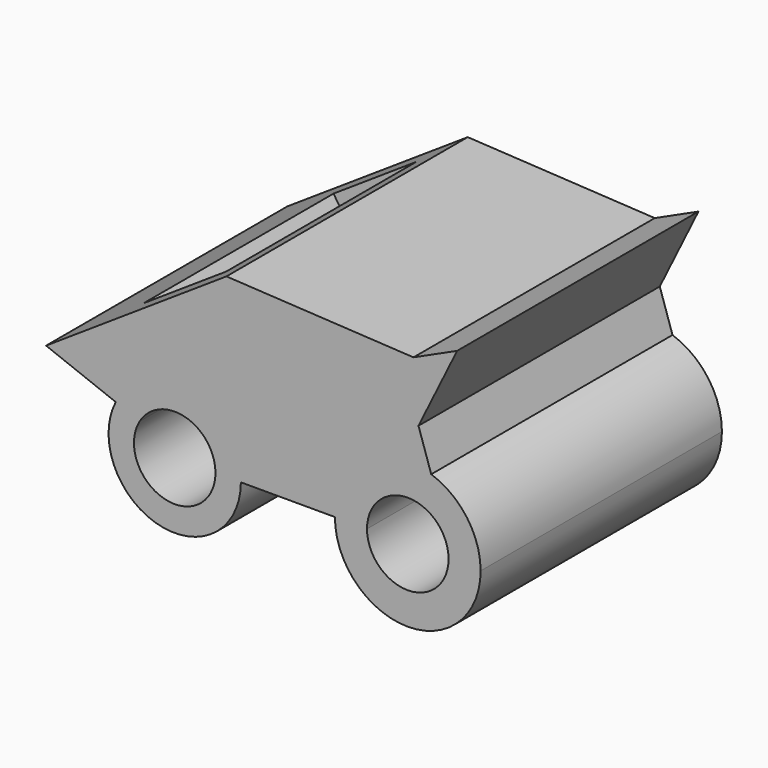
from build123d import *

# Parameters (mm, degrees)
F1_DEPTH = 90
F2_W     = 29.6450741589
F2_H     = 70.9077940881
F3_DEPTH = 25


with BuildPart() as f1:
    # F0 (on Front) → F1 (new body)
    with BuildSketch(Plane.XZ):
        with BuildLine():
            Line((19.7393086681, -2.1245502867), (12.1618005228, -2.1245502867))
            ThreePointArc((12.1618005228, -2.1245502867), (-3.2044417421, -13.8565980652), (-10.4731612691, 4.0578671196))
            Line((-10.4731612691, 4.0578671196), (-17.5973851442, 6.8181754041))
            ThreePointArc((-17.5973851442, 6.8181754041), (-4.5978304439, -21.3209109289), (19.7393086681, -2.1245502867))
        make_face()
        with BuildLine():
            ThreePointArc((-17.5973851442, 6.8181754041), (4.5978304439, 17.0718103555), (19.7393086681, -2.1245502867))
            Line((19.7393086681, -2.1245502867), (47.8034389698, -2.1245502867))
            ThreePointArc((47.8034389698, -2.1245502867), (56.8842174331, 15.549580718), (76.5405482344, 18.4588939876))
            Line((76.5405482344, 18.4588939876), (72.7407261729, 29.9625266343))
            Line((72.7407261729, 29.9625266343), (84.2738300562, 53.3970333636))
            Line((84.2738300562, 53.3970333636), (71.2432563305, 47.4482923746))
            Line((71.2432563305, 47.4482923746), (15.4384011403, 50.5643002689))
            Line((15.4384011403, 50.5643002689), (-38.3835434914, 14.8718534037))
            Line((-38.3835434914, 14.8718534037), (-17.5973851442, 6.8181754041))
        make_face()
        with BuildLine():
            Line((57.3760422717, -2.1245502867), (47.8034389698, -2.1245502867))
            ThreePointArc((47.8034389698, -2.1245502867), (69.5436149836, -23.8647263004), (91.2837909973, -2.1245502867))
            ThreePointArc((91.2837909973, -2.1245502867), (87.2177459882, 10.5348472637), (76.5405482344, 18.4588939876))
            Line((76.5405482344, 18.4588939876), (76.9786015153, 17.1327255666))
            Line((76.9786015153, 17.1327255666), (73.9260684349, 9.2263936144))
            ThreePointArc((73.9260684349, 9.2263936144), (79.5778973875, 4.7575280576), (81.7111876954, -2.1245502867))
            ThreePointArc((81.7111876954, -2.1245502867), (69.5436149836, -14.2921229985), (57.3760422717, -2.1245502867))
        make_face()
        with BuildLine():
            ThreePointArc((-10.4731612691, 4.0578671196), (3.2044417421, 9.6074974918), (12.1618005228, -2.1245502867))
            Line((12.1618005228, -2.1245502867), (19.7393086681, -2.1245502867))
            ThreePointArc((19.7393086681, -2.1245502867), (4.5978304439, 17.0718103555), (-17.5973851442, 6.8181754041))
            Line((-17.5973851442, 6.8181754041), (-10.4731612691, 4.0578671196))
        make_face()
        with BuildLine():
            ThreePointArc((76.5405482344, 18.4588939876), (56.8842174331, 15.549580718), (47.8034389698, -2.1245502867))
            Line((47.8034389698, -2.1245502867), (57.3760422717, -2.1245502867))
            ThreePointArc((57.3760422717, -2.1245502867), (62.6615366393, 7.9097321173), (73.9260684349, 9.2263936144))
            Line((73.9260684349, 9.2263936144), (76.9786015153, 17.1327255666))
            Line((76.9786015153, 17.1327255666), (76.5405482344, 18.4588939876))
        make_face()
    extrude(amount=F1_DEPTH)

    # F2 (on face) → F3 (cut)
    with BuildSketch(Plane(origin=(-18.5741359404, 0, 28.0086181803), x_dir=(0.8333974675, 0, 0.5526741003), z_dir=(-0.5526741003, 0, 0.8333974675))):
        with Locations((16.7337115854, -45)):
            Rectangle(F2_W, F2_H)
    extrude(amount=-F3_DEPTH, mode=Mode.SUBTRACT)


solid = f1.part
